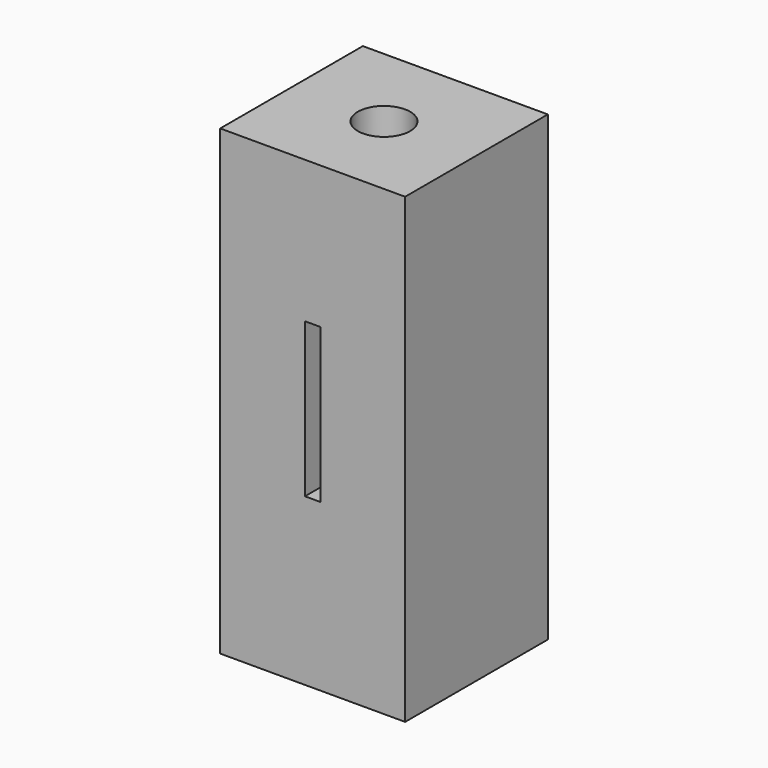
from build123d import *

# Parameters (mm, degrees)
F0_W     = 12
F0_H     = 11.57143
F1_DEPTH = 30
F2_R     = 1.7
F3_DEPTH = 30
F4_W     = 1
F4_H     = 10
F5_DEPTH = 6


with BuildPart() as f1:
    # F0 (on Top) → F1 (new body)
    with BuildSketch(Plane.XY):
        Rectangle(F0_W, F0_H)
    extrude(amount=F1_DEPTH)

    # F2 (on face) → F3 (cut)
    with BuildSketch(Plane.XY.offset(30)):
        Circle(F2_R)
    extrude(amount=-F3_DEPTH, mode=Mode.SUBTRACT)

    # F4 (on face) → F5 (cut)
    with BuildSketch(Plane.XZ.offset(5.785715)):
        with Locations((0, 15.774963)):
            Rectangle(F4_W, F4_H)
    extrude(amount=-F5_DEPTH, mode=Mode.SUBTRACT)


solid = f1.part
